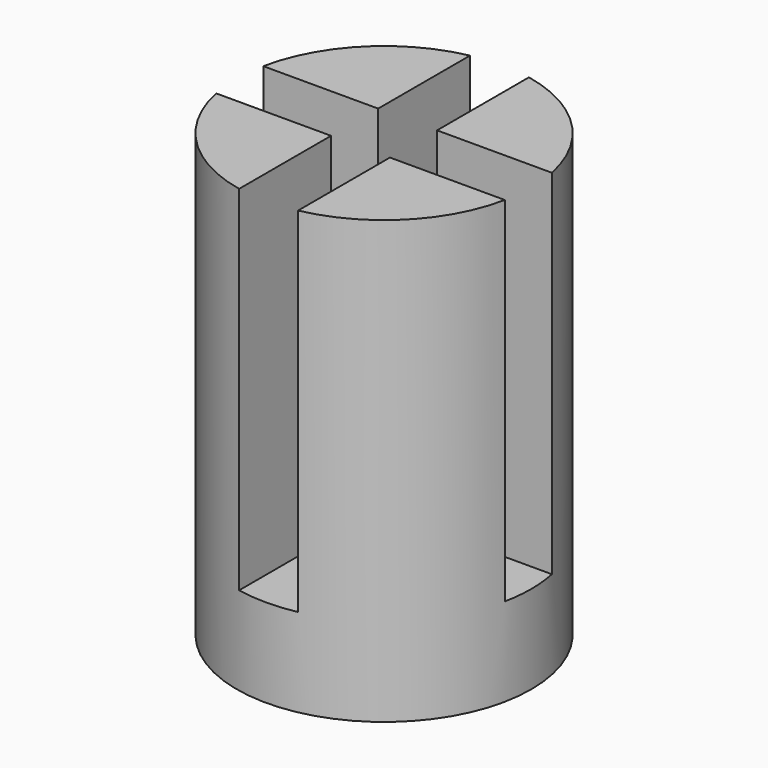
from build123d import *

# Parameters (mm, degrees)
F0_R     = 5
F1_DEPTH = 15
F2_W     = 2
F2_H     = 2
F3_DEPTH = 12


with BuildPart() as f1:
    # F0 (on Top) → F1 (new body)
    with BuildSketch(Plane.XY):
        Circle(F0_R)
    extrude(amount=F1_DEPTH)

    # F2 (on face) → F3 (cut)
    with BuildSketch(Plane.XY.offset(15)):
        with BuildLine():
            Line((-1, -1), (-1, 1))
            Line((-1, 1), (-4.8989794856, 1))
            ThreePointArc((-4.8989794856, 1), (-5, 0), (-4.8989794856, -1))
            Line((-4.8989794856, -1), (-1, -1))
        make_face()
        Rectangle(F2_W, F2_H)
        with BuildLine():
            Line((4.8989794856, 1), (1, 1))
            Line((1, 1), (1, -1))
            Line((1, -1), (4.8989794856, -1))
            ThreePointArc((4.8989794856, -1), (4.974680765, -0.50254481), (5, 0))
            ThreePointArc((5, 0), (4.974680765, 0.50254481), (4.8989794856, 1))
        make_face()
        with BuildLine():
            ThreePointArc((1, 4.8989794856), (0, 5), (-1, 4.8989794856))
            Line((-1, 4.8989794856), (-1, 1))
            Line((-1, 1), (1, 1))
            Line((1, 1), (1, 4.8989794856))
        make_face()
        with BuildLine():
            Line((1, -1), (-1, -1))
            Line((-1, -1), (-1, -4.8989794856))
            ThreePointArc((-1, -4.8989794856), (0, -5), (1, -4.8989794856))
            Line((1, -4.8989794856), (1, -1))
        make_face()
    extrude(amount=-F3_DEPTH, mode=Mode.SUBTRACT)


solid = f1.part
